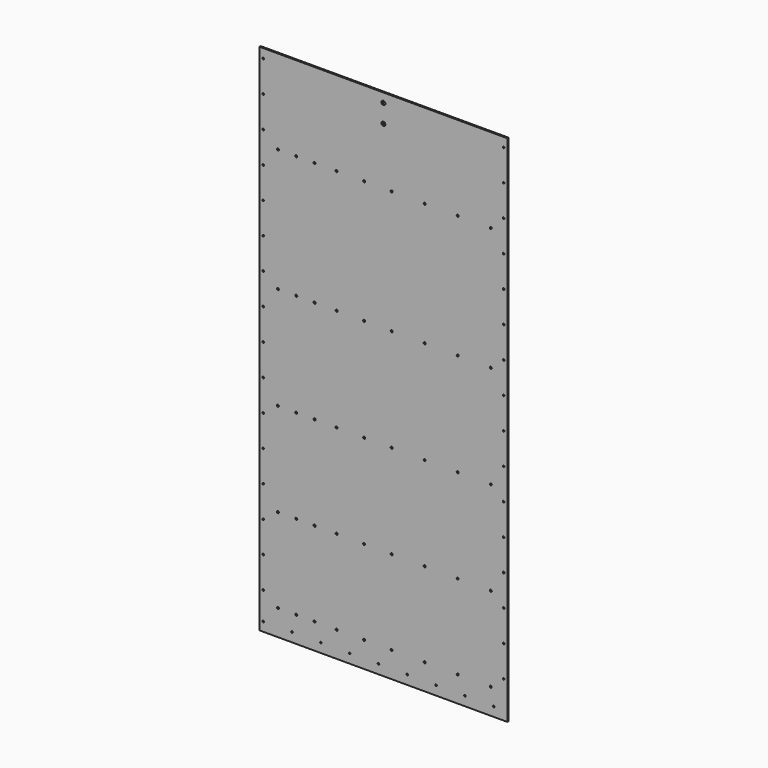
from build123d import *

# Parameters (mm, degrees)
F0_W     = 1350
F0_H     = 2800
F0_R     = 4.5
F0_R_2   = 10.5
F1_DEPTH = 4
F2_R     = 5.5
F3_DEPTH = 12.5


with BuildPart() as f1:
    # F0 (on Front) → F1 (new body, symmetric)
    with BuildSketch(Plane.XZ):
        with Locations((-675, 0)):
            Rectangle(F0_W, F0_H)
        with Locations((-1330, -1350)):
            Circle(F0_R, mode=Mode.SUBTRACT)
        with Locations((-1330, -1200)):
            Circle(F0_R, mode=Mode.SUBTRACT)
        with Locations((-1173, -1350)):
            Circle(F0_R, mode=Mode.SUBTRACT)
        with Locations((-1016, -1350)):
            Circle(F0_R, mode=Mode.SUBTRACT)
        with Locations((-1330, -1030)):
            Circle(F0_R, mode=Mode.SUBTRACT)
        with Locations((-1330, -860)):
            Circle(F0_R, mode=Mode.SUBTRACT)
        with Locations((-859, -1350)):
            Circle(F0_R, mode=Mode.SUBTRACT)
        with Locations((-702, -1350)):
            Circle(F0_R, mode=Mode.SUBTRACT)
        with Locations((-1330, -690)):
            Circle(F0_R, mode=Mode.SUBTRACT)
        with Locations((-1330, -520)):
            Circle(F0_R, mode=Mode.SUBTRACT)
        with Locations((-1330, -350)):
            Circle(F0_R, mode=Mode.SUBTRACT)
        with Locations((-1330, -180)):
            Circle(F0_R, mode=Mode.SUBTRACT)
        with Locations((-1330, -10)):
            Circle(F0_R, mode=Mode.SUBTRACT)
        with Locations((-545, -1350)):
            Circle(F0_R, mode=Mode.SUBTRACT)
        with Locations((-388, -1350)):
            Circle(F0_R, mode=Mode.SUBTRACT)
        with Locations((-231, -1350)):
            Circle(F0_R, mode=Mode.SUBTRACT)
        with Locations((-74, -1350)):
            Circle(F0_R, mode=Mode.SUBTRACT)
        with Locations((-20, -1200)):
            Circle(F0_R, mode=Mode.SUBTRACT)
        with Locations((-20, -1030)):
            Circle(F0_R, mode=Mode.SUBTRACT)
        with Locations((-20, -860)):
            Circle(F0_R, mode=Mode.SUBTRACT)
        with Locations((-20, -690)):
            Circle(F0_R, mode=Mode.SUBTRACT)
        with Locations((-20, -520)):
            Circle(F0_R, mode=Mode.SUBTRACT)
        with Locations((-20, -350)):
            Circle(F0_R, mode=Mode.SUBTRACT)
        with Locations((-20, -180)):
            Circle(F0_R, mode=Mode.SUBTRACT)
        with Locations((-20, -10)):
            Circle(F0_R, mode=Mode.SUBTRACT)
        with Locations((-1330, 160)):
            Circle(F0_R, mode=Mode.SUBTRACT)
        with Locations((-1330, 330)):
            Circle(F0_R, mode=Mode.SUBTRACT)
        with Locations((-1330, 500)):
            Circle(F0_R, mode=Mode.SUBTRACT)
        with Locations((-1330, 670)):
            Circle(F0_R, mode=Mode.SUBTRACT)
        with Locations((-1330, 840)):
            Circle(F0_R, mode=Mode.SUBTRACT)
        with Locations((-1330, 1010)):
            Circle(F0_R, mode=Mode.SUBTRACT)
        with Locations((-1330, 1180)):
            Circle(F0_R, mode=Mode.SUBTRACT)
        with Locations((-1330, 1350)):
            Circle(F0_R, mode=Mode.SUBTRACT)
        with Locations((-20, 160)):
            Circle(F0_R, mode=Mode.SUBTRACT)
        with Locations((-20, 330)):
            Circle(F0_R, mode=Mode.SUBTRACT)
        with Locations((-20, 500)):
            Circle(F0_R, mode=Mode.SUBTRACT)
        with Locations((-20, 670)):
            Circle(F0_R, mode=Mode.SUBTRACT)
        with Locations((-675, 1250)):
            Circle(F0_R_2, mode=Mode.SUBTRACT)
        with Locations((-675, 1350)):
            Circle(F0_R_2, mode=Mode.SUBTRACT)
        with Locations((-20, 840)):
            Circle(F0_R, mode=Mode.SUBTRACT)
        with Locations((-20, 1010)):
            Circle(F0_R, mode=Mode.SUBTRACT)
        with Locations((-20, 1180)):
            Circle(F0_R, mode=Mode.SUBTRACT)
        with Locations((-20, 1350)):
            Circle(F0_R, mode=Mode.SUBTRACT)
    extrude(amount=F1_DEPTH, both=True)

    # F2 (on face) → F3 (cut, symmetric)
    with BuildSketch(Plane.XZ):
        with Locations((-1250, -1260)):
            Circle(F2_R)
        with Locations((-1150, -1260)):
            Circle(F2_R)
        with Locations((-1050, -1260)):
            Circle(F2_R)
        with Locations((-930, -1260)):
            Circle(F2_R)
        with Locations((-780, -1260)):
            Circle(F2_R)
        with Locations((-630, -1260)):
            Circle(F2_R)
        with Locations((-450, -1260)):
            Circle(F2_R)
        with Locations((-90, -1260)):
            Circle(F2_R)
        with Locations((-270, -1260)):
            Circle(F2_R)
        with Locations((-1250, -800)):
            Circle(F2_R)
        with Locations((-1150, -800)):
            Circle(F2_R)
        with Locations((-1050, -800)):
            Circle(F2_R)
        with Locations((-930, -800)):
            Circle(F2_R)
        with Locations((-780, -800)):
            Circle(F2_R)
        with Locations((-630, -800)):
            Circle(F2_R)
        with Locations((-450, -800)):
            Circle(F2_R)
        with Locations((-90, -800)):
            Circle(F2_R)
        with Locations((-270, -800)):
            Circle(F2_R)
        with Locations((-1250, -290)):
            Circle(F2_R)
        with Locations((-1150, -290)):
            Circle(F2_R)
        with Locations((-1050, -290)):
            Circle(F2_R)
        with Locations((-930, -290)):
            Circle(F2_R)
        with Locations((-780, -290)):
            Circle(F2_R)
        with Locations((-630, -290)):
            Circle(F2_R)
        with Locations((-450, -290)):
            Circle(F2_R)
        with Locations((-90, -290)):
            Circle(F2_R)
        with Locations((-270, -290)):
            Circle(F2_R)
        with Locations((-1250, 270)):
            Circle(F2_R)
        with Locations((-1150, 270)):
            Circle(F2_R)
        with Locations((-1050, 270)):
            Circle(F2_R)
        with Locations((-930, 270)):
            Circle(F2_R)
        with Locations((-780, 270)):
            Circle(F2_R)
        with Locations((-630, 270)):
            Circle(F2_R)
        with Locations((-450, 270)):
            Circle(F2_R)
        with Locations((-90, 270)):
            Circle(F2_R)
        with Locations((-270, 270)):
            Circle(F2_R)
        with Locations((-1250, 940)):
            Circle(F2_R)
        with Locations((-1150, 940)):
            Circle(F2_R)
        with Locations((-1050, 940)):
            Circle(F2_R)
        with Locations((-930, 940)):
            Circle(F2_R)
        with Locations((-780, 940)):
            Circle(F2_R)
        with Locations((-630, 940)):
            Circle(F2_R)
        with Locations((-450, 940)):
            Circle(F2_R)
        with Locations((-90, 940)):
            Circle(F2_R)
        with Locations((-270, 940)):
            Circle(F2_R)
    extrude(amount=F3_DEPTH, both=True, mode=Mode.SUBTRACT)


solid = f1.part
